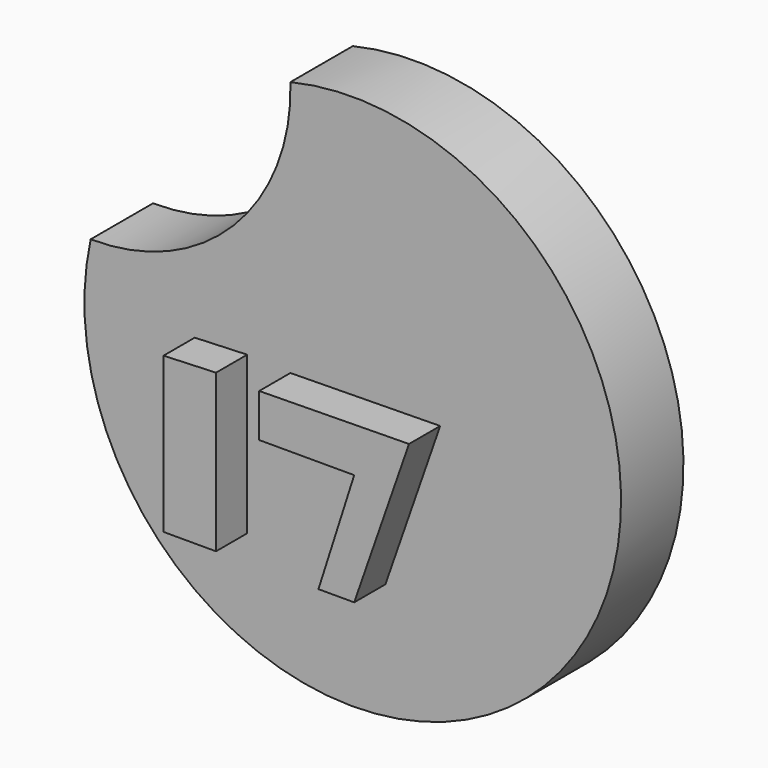
from build123d import *

# Parameters (mm, degrees)
F1_DEPTH = 5.334
F2_DEPTH = 5.334
F4_DEPTH = 5.334


with BuildPart() as f1:
    # F0 (on Front) → F1 (new body)
    with BuildSketch(Plane.XZ):
        with BuildLine():
            ThreePointArc((27.324475, 0), (19.600425, -19.741603), (0, -27.817197))
            ThreePointArc((0, -27.817197), (62.043611, -61.433), (27.324475, 0))
        make_face()
    extrude(amount=F1_DEPTH)

    # F1_face (on face) → F2 (join)
    with BuildSketch(Plane(origin=(37.914112, -5.334, -37.730903), x_dir=(1, 0, 0), z_dir=(0, -1, 0))):
        with BuildLine():
            ThreePointArc((-10.589637, 37.730903), (-18.313687, 17.9893), (-37.914112, 9.913706))
            ThreePointArc((-37.914112, 9.913706), (24.129499, -23.702097), (-10.589637, 37.730903))
        make_face()
    extrude(amount=F2_DEPTH)

    # F3 (on face) → F4 (join)
    with BuildSketch(Plane.XZ.offset(10.668)):
        Polygon((47.816351, -34.752887), (27.324475, -35.03488), (27.324475, -40.946536), (40.31878, -40.946536), (35.429053, -56.267668), (40.31878, -56.267668), align=None)
        Polygon((21.411845, -34.752887), (14.236325, -35.03488), (14.236325, -56.267668), (21.411845, -56.267668), align=None)
    extrude(amount=F4_DEPTH)


solid = f1.part
